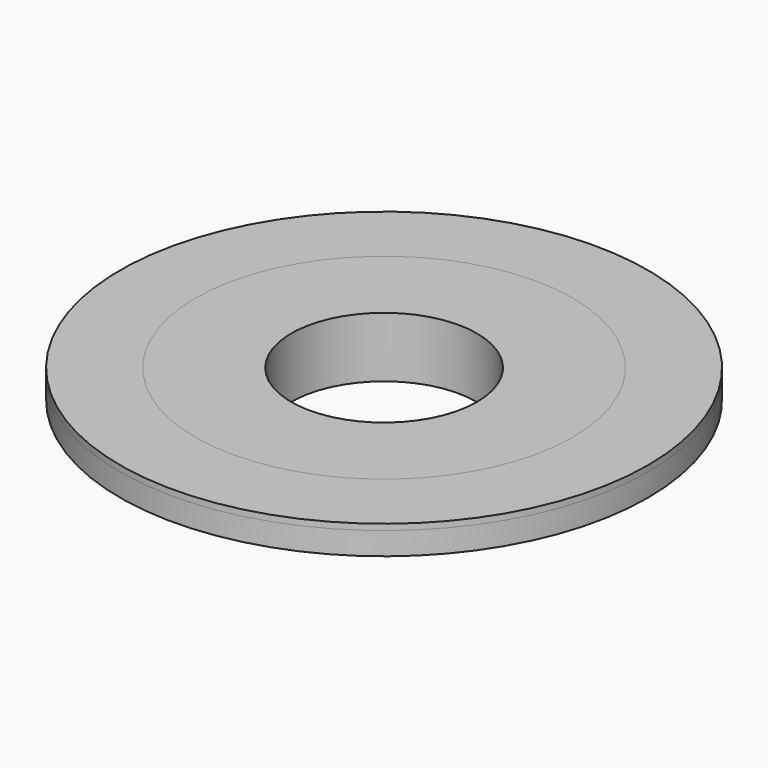
from build123d import *

# Parameters (mm, degrees)
F0_R        = 22.225
F0_R_2      = 15.875
F1_DEPTH    = 1.905
F1_FACE_R   = 22.225
F1_FACE_R_2 = 15.875
F2_DEPTH    = 0.508
F3_R        = 15.875
F3_R_2      = 7.818053
F4_DEPTH    = 5.08


with BuildPart() as f1:
    # F0 (on Top) → F1 (new body)
    with BuildSketch(Plane.XY):
        Circle(F0_R)
        Circle(F0_R_2, mode=Mode.SUBTRACT)
    extrude(amount=-F1_DEPTH)


with BuildPart() as f2:
    # F1_face (on face) → F2 (new body)
    with BuildSketch(Plane.XY):
        Circle(F1_FACE_R)
        Circle(F1_FACE_R_2, mode=Mode.SUBTRACT)
    extrude(amount=F2_DEPTH)


with BuildPart() as f4:
    # F3 (on face) → F4 (new body)
    with BuildSketch(Plane.XY.offset(0.508)):
        Circle(F3_R)
        Circle(F3_R_2, mode=Mode.SUBTRACT)
    extrude(amount=-F4_DEPTH)


solid = Compound([f1.part, f2.part, f4.part])
